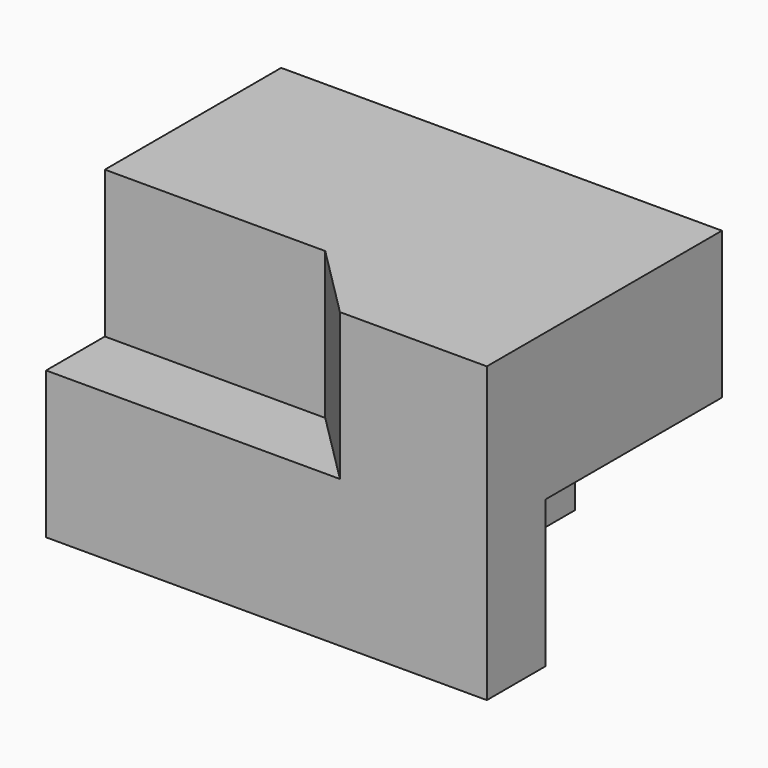
from build123d import *

# Parameters (mm, degrees)
F3_DEPTH = 25.4
F0_W     = 12.7
F0_H     = 12.7
F4_DEPTH = 25.4
F5_DEPTH = 25.4


with BuildPart() as f3:
    # F1 (on Top) → F3 (new body)
    with BuildSketch(Plane.XY):
        Polygon((19.05, 25.4), (0, 25.4), (25.4, 0), (38.1, 0), (38.1, 6.35), align=None)
    extrude(amount=F3_DEPTH)

    # F0 (on Front) → F4 (join)
    with BuildSketch(Plane.XZ):
        with Locations((31.75, 19.05)):
            Rectangle(F0_W, F0_H)
    extrude(amount=-F4_DEPTH)

    # F2 (on Right) → F5 (join)
    with BuildSketch(Plane.YZ):
        Polygon((0, 12.7), (0, 0), (25.4, 0), (25.4, 25.4), (6.35, 25.4), (6.35, 12.7), align=None)
    extrude(amount=F5_DEPTH)


solid = f3.part
